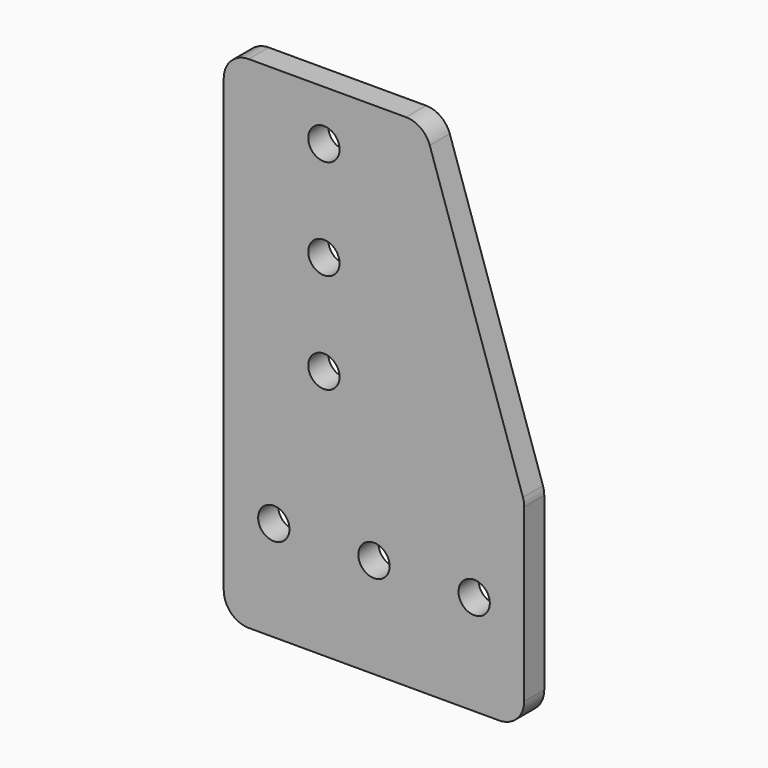
from build123d import *

# Parameters (mm, degrees)
F1_DEPTH = 3.175
F3_D     = 3.96875


with BuildPart() as f1:
    # F0 (on Front) → F1 (new body)
    with BuildSketch(Plane.XZ):
        with BuildLine():
            ThreePointArc((7.073659, 29.579023), (5.918045, 31.150694), (4.061589, 31.75))
            Line((4.061589, 31.75), (-15.875, 31.75))
            ThreePointArc((-15.875, 31.75), (-18.120064, 30.820064), (-19.05, 28.575))
            Line((-19.05, 28.575), (-19.05, -28.575))
            ThreePointArc((-19.05, -28.575), (-18.120064, -30.820064), (-15.875, -31.75))
            Line((-15.875, -31.75), (15.875, -31.75))
            ThreePointArc((15.875, -31.75), (18.120064, -30.820064), (19.05, -28.575))
            Line((19.05, -28.575), (19.05, -6.865232))
            ThreePointArc((19.05, -6.865232), (19.009003, -6.356653), (18.887069, -5.861208))
            Line((18.887069, -5.861208), (7.073659, 29.579023))
        make_face()
    extrude(amount=F1_DEPTH)

    # F3 (through all)
    with Locations(Plane.XZ.offset(3.175)):
        with Locations((-6.35, 25.4), (-6.35, 12.7), (-6.35, 0), (-12.7, -19.05), (0, -19.05), (12.7, -19.05)):
            Hole(F3_D / 2)


solid = f1.part
